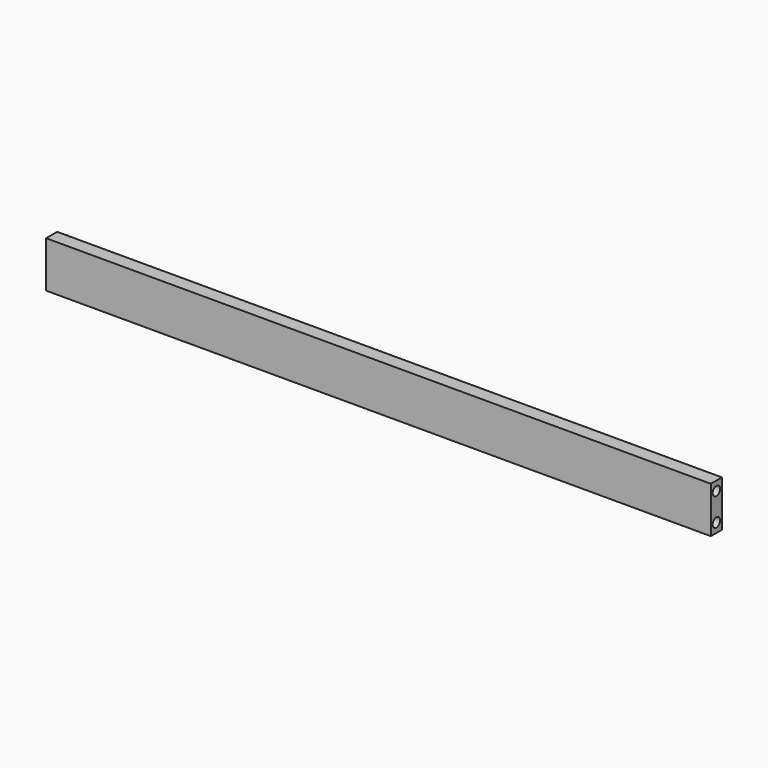
from build123d import *

# Parameters (mm, degrees)
F0_W     = 19.05
F0_H     = 63.5
F1_DEPTH = 914.4
F2_R     = 6.35
F3_DEPTH = 25.4
F4_R     = 6.35
F5_DEPTH = 25.4


with BuildPart() as f1:
    # F0 (on Right) → F1 (new body)
    with BuildSketch(Plane.YZ):
        Rectangle(F0_W, F0_H)
    extrude(amount=F1_DEPTH)

    # F2 (on Right) → F3 (cut)
    with BuildSketch(Plane.YZ):
        with Locations((0, 19.05)):
            Circle(F2_R)
        with Locations((0, -19.05)):
            Circle(F2_R)
    extrude(amount=F3_DEPTH, mode=Mode.SUBTRACT)

    # F4 (on face) → F5 (cut)
    with BuildSketch(Plane.YZ.offset(914.4)):
        with Locations((0, 19.05)):
            Circle(F4_R)
        with Locations((0, -19.05)):
            Circle(F4_R)
    extrude(amount=-F5_DEPTH, mode=Mode.SUBTRACT)


solid = f1.part
